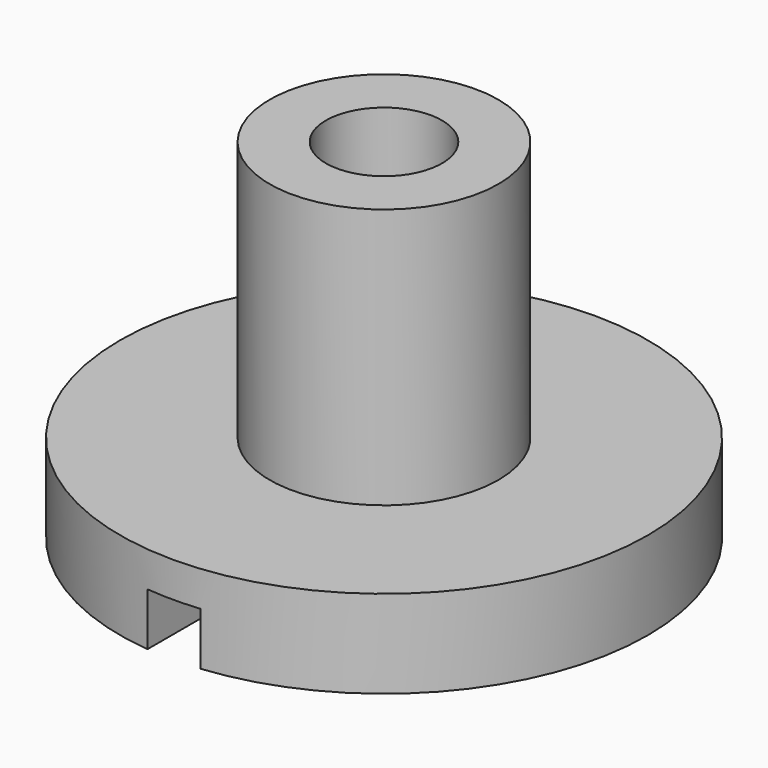
from build123d import *

# Parameters (mm, degrees)
F0_R     = 7.5
F1_DEPTH = 2.5
F2_R     = 3.25
F3_DEPTH = 7.4
F4_W     = 1.5
F4_H     = 16
F5_DEPTH = 1.5
F7_D     = 3.3


with BuildPart() as f1:
    # F0 (on Top) → F1 (new body)
    with BuildSketch(Plane.XY):
        Circle(F0_R)
    extrude(amount=F1_DEPTH)

    # F2 (on face) → F3 (join)
    with BuildSketch(Plane.XY.offset(2.5)):
        Circle(F2_R)
    extrude(amount=F3_DEPTH)

    # F4 (on face) → F5 (cut)
    with BuildSketch(Plane(origin=(0, 0, 0), x_dir=(1, 0, 0), z_dir=(0, 0, -1))):
        Rectangle(F4_W, F4_H)
    extrude(amount=-F5_DEPTH, mode=Mode.SUBTRACT)

    # F7 (through all)
    with Locations(Plane.XY.offset(9.9)):
        with Locations((0, 0)):
            Hole(F7_D / 2)


solid = f1.part
